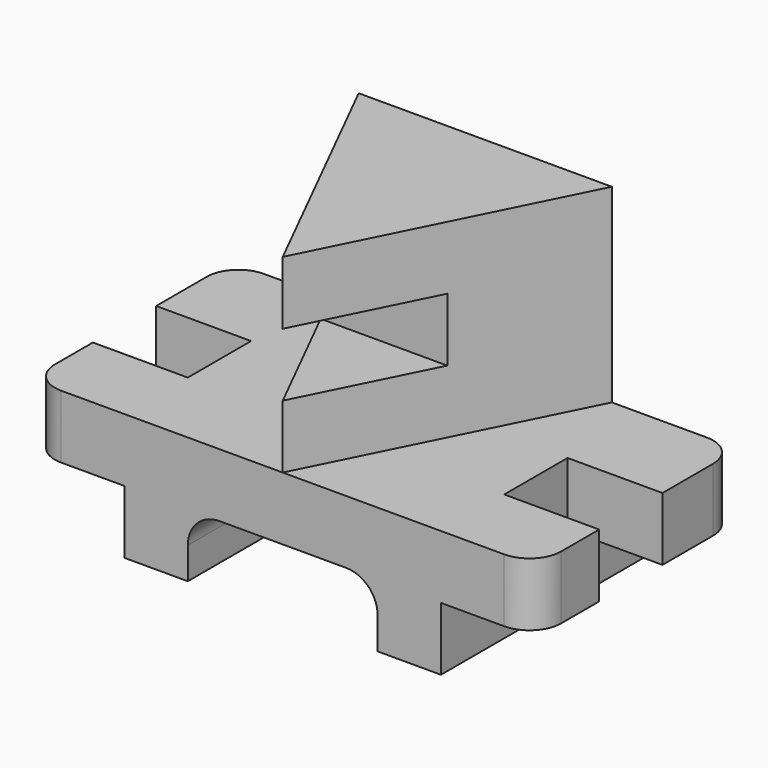
from build123d import *

# Parameters (mm, degrees)
F1_DEPTH = 101.6
F2_W     = 38.1
F2_H     = 31.75
F3_DEPTH = 25.4
F5_DEPTH = 76.2
F7_DEPTH = 50.8
F9_DEPTH = 127


with BuildPart() as f1:
    # F0 (on Front) → F1 (new body)
    with BuildSketch(Plane.XZ):
        with BuildLine():
            Line((-63.5, 0), (-38.1, 0))
            Line((-38.1, 0), (-38.1, 12.7))
            ThreePointArc((-38.1, 12.7), (-34.380256, 21.680256), (-25.4, 25.4))
            Line((-25.4, 25.4), (0, 25.4))
            Line((0, 25.4), (25.4, 25.4))
            ThreePointArc((25.4, 25.4), (34.380256, 21.680256), (38.1, 12.7))
            Line((38.1, 12.7), (38.1, 0))
            Line((38.1, 0), (63.5, 0))
            Line((63.5, 0), (63.5, 25.4))
            Line((63.5, 25.4), (101.6, 25.4))
            Line((101.6, 25.4), (101.6, 50.8))
            Line((101.6, 50.8), (0, 50.8))
            Line((0, 50.8), (-101.6, 50.8))
            Line((-101.6, 50.8), (-101.6, 25.4))
            Line((-101.6, 25.4), (-63.5, 25.4))
            Line((-63.5, 25.4), (-63.5, 0))
        make_face()
    extrude(amount=-F1_DEPTH)

    # F2 (on face) → F3 (cut)
    with BuildSketch(Plane.XY.offset(50.8)):
        with Locations((82.55, 47.625)):
            Rectangle(F2_W, F2_H)
        with Locations((-82.55, 47.625)):
            Rectangle(F2_W, F2_H)
    extrude(amount=-F3_DEPTH, mode=Mode.SUBTRACT)

    # F4 (on face) → F5 (join)
    with BuildSketch(Plane.XY.offset(50.8)):
        Polygon((50.8, 101.6), (-50.8, 101.6), (0, 0), align=None)
    extrude(amount=F5_DEPTH)

    # F6 (on Front) → F7 (cut)
    with BuildSketch(Plane.XZ):
        Polygon((-50.8, 76.2), (0, 76.2), (50.8, 76.2), (50.8, 101.6), (-50.8, 101.6), align=None)
    extrude(amount=-F7_DEPTH, mode=Mode.SUBTRACT)

    # F8 (on Top) → F9 (intersect, symmetric)
    with BuildSketch(Plane.XY):
        with BuildLine():
            Line((0, 101.6), (-88.9, 101.6))
            ThreePointArc((-88.9, 101.6), (-97.880256, 97.880256), (-101.6, 88.9))
            Line((-101.6, 88.9), (-101.6, 12.7))
            ThreePointArc((-101.6, 12.7), (-97.880256, 3.719744), (-88.9, 0))
            Line((-88.9, 0), (0, 0))
            Line((0, 0), (0, 101.6))
        make_face()
        with BuildLine():
            Line((88.9, 101.6), (0, 101.6))
            Line((0, 101.6), (0, 0))
            Line((0, 0), (88.9, 0))
            ThreePointArc((88.9, 0), (97.880256, 3.719744), (101.6, 12.7))
            Line((101.6, 12.7), (101.6, 88.9))
            ThreePointArc((101.6, 88.9), (97.880256, 97.880256), (88.9, 101.6))
        make_face()
    extrude(amount=F9_DEPTH, both=True, mode=Mode.INTERSECT)


solid = f1.part
